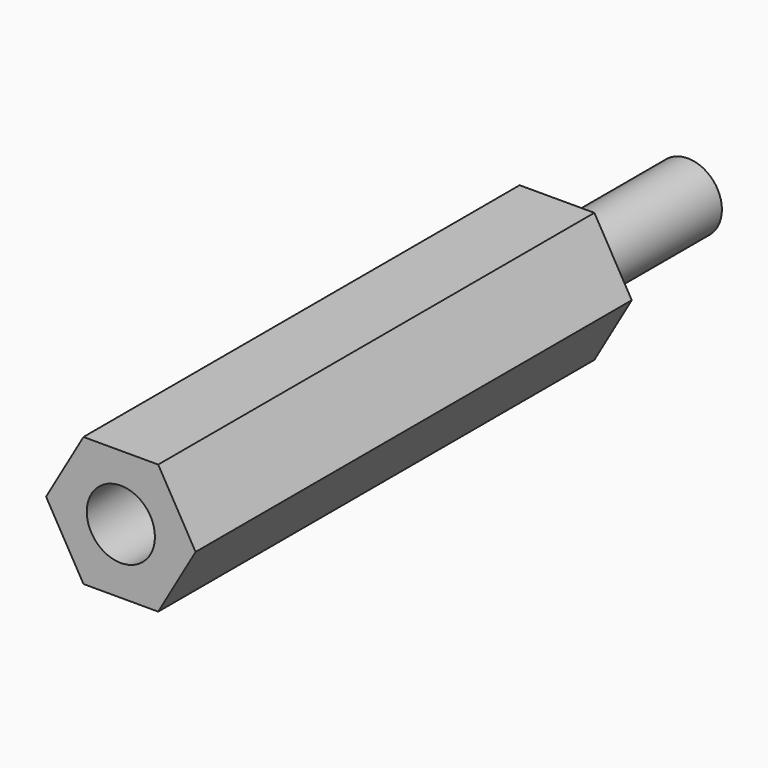
from build123d import *

# Parameters (mm, degrees)
PAD008_DEPTH            = 20
SKETCH021_R             = 1.25
PAD007_DEPTH            = 6
SKETCH023_R             = 1.25
POCKET013_DEPTH         = 5
BODY009_PLACEMENT_ANGLE = 90


with BuildPart() as part:
    # Sketch022 → Pad008 (new body)
    with BuildSketch(Plane.XY):
        Polygon((1.371207, 2.375), (-1.371207, 2.375), (-2.742414, 0), (-1.371207, -2.375), (1.371207, -2.375), (2.742414, 0), align=None)
    extrude(amount=PAD008_DEPTH)

    # Sketch021 (on Face7 of Pad008) → Pad007 (join)
    with BuildSketch(Plane(origin=(0, 0, 0), x_dir=(1, 0, 0), z_dir=(0, 0, -1))):
        Circle(SKETCH021_R)
    extrude(amount=PAD007_DEPTH)

    # Sketch023 (on Face5 of Pad007) → Pocket013 (cut)
    with BuildSketch(Plane.XY.offset(20)):
        Circle(SKETCH023_R)
    extrude(amount=-POCKET013_DEPTH, mode=Mode.SUBTRACT)


with BuildPart() as part_1:
    # Body009 placement: moved
    add(part.part.moved(Location((61, -23.8, -13.5))).rotate(Axis((61, -23.8, -13.5), (1, 0, 0)), BODY009_PLACEMENT_ANGLE))


with BuildPart() as part_2:
    # Body011 placement: moved
    add(part_1.part.moved(Location((0, 0, -49))))


solid = part_2.part
